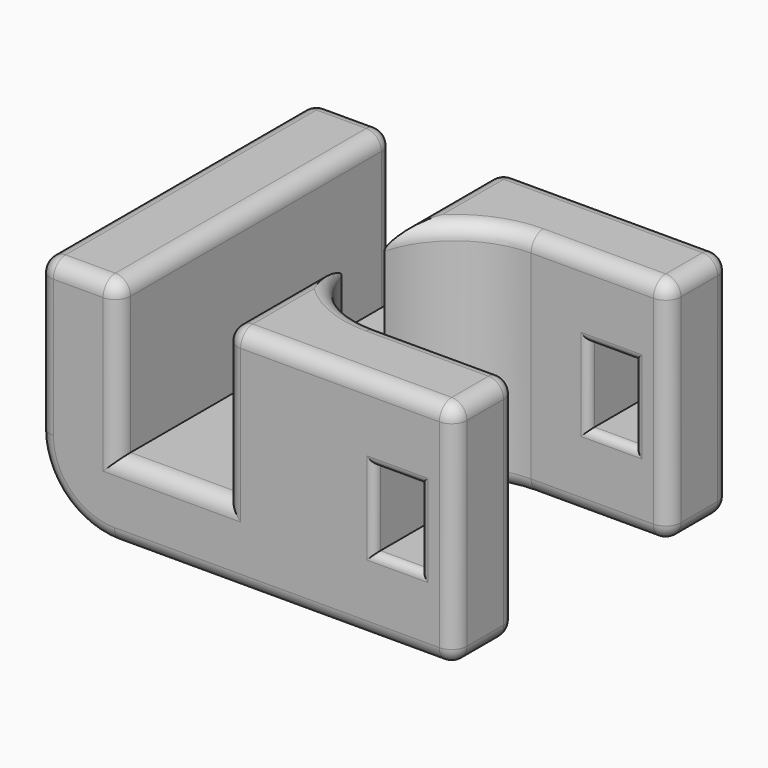
from build123d import *

# Parameters (mm, degrees)
PAD_DEPTH       = 15
SKETCH001_W     = 7
SKETCH001_H     = 22.5
POCKET_DEPTH    = 10
SKETCH002_W     = 3
SKETCH002_H     = 5
POCKET001_DEPTH = 15.001
FILLET_R        = 5
SKETCH003_W     = 3
SKETCH003_H     = 5
POCKET002_DEPTH = 22.501
FILLET001_R     = 1
FILLET002_R     = 0.5


with BuildPart() as part:
    # Sketch → Pad (new body)
    with BuildSketch(Plane.XY):
        with BuildLine():
            ThreePointArc((18.25, 17.5), (12, 11.25), (18.25, 5))
            Line((27.25, 5), (18.25, 5))
            Line((27.25, 0), (27.25, 5))
            Line((0, 0), (27.25, 0))
            Line((0, 22.5), (0, 0))
            Line((27.25, 22.5), (0, 22.5))
            Line((27.25, 17.5), (27.25, 22.5))
            Line((18.25, 17.5), (27.25, 17.5))
        make_face()
    extrude(amount=PAD_DEPTH)

    # Sketch001 (on Face10 of Pad) → Pocket (cut)
    with BuildSketch(Plane.XY.offset(15)):
        with Locations((8.75, 11.25)):
            Rectangle(SKETCH001_W, SKETCH001_H)
    extrude(amount=-POCKET_DEPTH, mode=Mode.SUBTRACT)

    # Sketch002 (on Face8 of Pocket) → Pocket001 (cut, through all)
    with BuildSketch(Plane.XY.offset(15)):
        with Locations((28.5, 7.5)):
            Rectangle(SKETCH002_W, SKETCH002_H)
    extrude(amount=-POCKET001_DEPTH, mode=Mode.SUBTRACT)

    # Fillet
    fillet_edges = [part.edges().sort_by_distance(p)[0] for p in [
        (0, 11.25, 0),
    ]]
    fillet(fillet_edges, radius=FILLET_R)

    # Sketch003 (on Face2 of Fillet) → Pocket002 (cut, through all)
    with BuildSketch(Plane.XZ):
        with Locations((23.5, 7.5)):
            Rectangle(SKETCH003_W, SKETCH003_H)
    extrude(amount=-POCKET002_DEPTH, mode=Mode.SUBTRACT)

    # Fillet001
    fillet001_edges = [part.edges().sort_by_distance(p)[0] for p in [
        (2.625, 0, 15),
        (0, 11.25, 15),
        (5.25, 11.25, 15),
        (2.625, 22.5, 15),
        (19.75, 0, 15),
        (27.25, 2.5, 15),
        (27.25, 0, 7.5),
        (16.125, 0, 0),
        (12.25, 4.75, 15),
        (27.25, 2.5, 0),
        (5.25, 0, 10),
        (12.25, 0, 10),
        (8.75, 0, 5),
        (27.25, 5, 7.5),
        (27.25, 17.5, 7.5),
        (27.25, 20, 0),
        (27.25, 22.5, 7.5),
        (27.25, 20, 15),
        (19.75, 22.5, 15),
        (12.25, 17.75, 15),
        (16.125, 22.5, 0),
        (12.25, 22.5, 10),
        (5.25, 22.5, 10),
        (0, 22.5, 10),
        (8.75, 22.5, 5),
        (1.464466, 22.5, 1.464466),
        (22.625, 5, 0),
        (12, 11.25, 0),
        (22.75, 17.5, 0),
        (22.625, 5, 15),
        (14.5, 6.25, 15),
        (14.5, 16.25, 15),
        (22.75, 17.5, 15),
    ]]
    fillet(fillet001_edges, radius=FILLET001_R)

    # Fillet002
    fillet002_edges = [part.edges().sort_by_distance(p)[0] for p in [
        (22, 0, 7.5),
        (23.5, 0, 10),
        (25, 0, 7.5),
        (23.5, 0, 5),
        (23.5, 17.5, 10),
        (22, 17.5, 7.5),
        (23.5, 17.5, 5),
        (25, 17.5, 7.5),
        (23.5, 5, 10),
        (22, 5, 7.5),
        (23.5, 5, 5),
        (25, 5, 7.5),
        (22, 22.5, 7.5),
        (23.5, 22.5, 10),
        (25, 22.5, 7.5),
        (23.5, 22.5, 5),
    ]]
    fillet(fillet002_edges, radius=FILLET002_R)


solid = part.part
